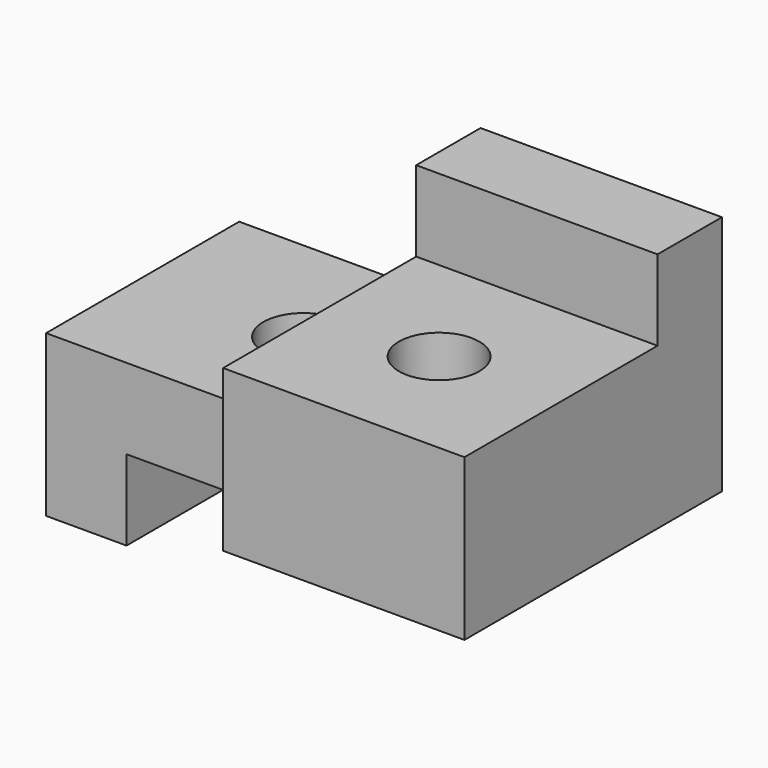
from build123d import *

# Parameters (mm, degrees)
F1_DEPTH = 19.05
F2_R     = 3.175
F3_DEPTH = 12.701
F4_W     = 19.05
F4_H     = 6.35
F5_DEPTH = 19.05
F6_R     = 3.175
F7_DEPTH = 19.051


with BuildPart() as f1:
    # F0 (on Front) → F1 (new body)
    with BuildSketch(Plane.XZ):
        Polygon((0, 12.7), (0, 0), (6.35, 0), (6.35, 6.35), (19.05, 6.35), (19.05, 12.7), align=None)
    extrude(amount=-F1_DEPTH)

    # F2 (on face) → F3 (cut, through all)
    with BuildSketch(Plane.XY.offset(12.7)):
        with Locations((12.7, 9.525)):
            Circle(F2_R)
    extrude(amount=-F3_DEPTH, mode=Mode.SUBTRACT)

    # F4 (on face) → F5 (join)
    with BuildSketch(Plane.YZ.offset(19.05)):
        Polygon((19.05, 12.7), (19.05, 25.4), (12.7, 25.4), (12.7, 19.05), (-6.35, 19.05), (-6.35, 6.35), (0, 6.35), (0, 12.7), align=None)
        with Locations((9.525, 9.525)):
            Rectangle(F4_W, F4_H)
    extrude(amount=F5_DEPTH)

    # F6 (on face) → F7 (cut, through all)
    with BuildSketch(Plane.XY.offset(19.05)):
        with Locations((28.4793661692, 3.173559385)):
            Circle(F6_R)
    extrude(amount=-F7_DEPTH, mode=Mode.SUBTRACT)


solid = f1.part
